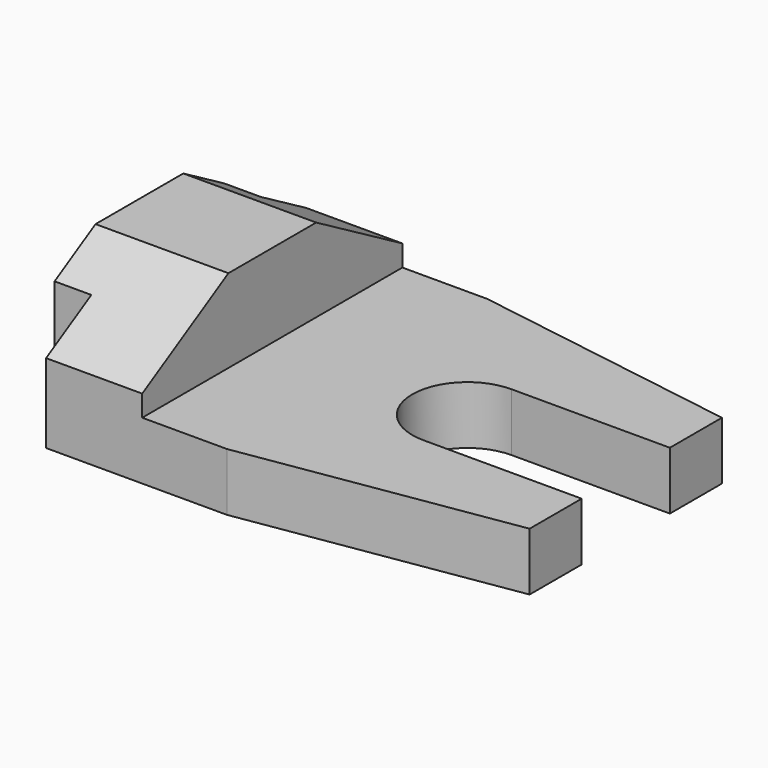
from build123d import *

# Parameters (mm, degrees)
F1_DEPTH = 25.4
F2_W     = 15.24
F2_H     = 14.986
F2_W_2   = 48.74875
F3_DEPTH = 76.2
F5_DEPTH = 25.4


with BuildPart() as f1:
    # F0 (on Top) → F1 (new body)
    with BuildSketch(Plane.XY):
        with BuildLine():
            Line((1.640223, 29.21), (-30.871777, 29.21))
            Line((-30.871777, 29.21), (-30.871777, 19.05))
            Line((-30.871777, 19.05), (-37.475777, 19.05))
            Line((-37.475777, 19.05), (-37.475777, -19.05))
            Line((-37.475777, -19.05), (-30.871777, -19.05))
            Line((-30.871777, -19.05), (-30.871777, -29.21))
            Line((-30.871777, -29.21), (1.640223, -29.21))
            Line((1.640223, -29.21), (49.900223, -21.59))
            Line((49.900223, -21.59), (49.900223, -9.906))
            Line((49.900223, -9.906), (21.452223, -9.906))
            ThreePointArc((21.452223, -9.906), (11.546223, 0), (21.452223, 9.906))
            Line((21.452223, 9.906), (49.900223, 9.906))
            Line((49.900223, 9.906), (49.900223, 21.59))
            Line((49.900223, 21.59), (1.640223, 29.21))
        make_face()
    extrude(amount=F1_DEPTH)

    # F2 (on face) → F3 (cut)
    with BuildSketch(Plane.XZ.offset(29.21)):
        with Locations((-5.979777, 17.907)):
            Rectangle(F2_W, F2_H)
        with Locations((26.014598, 17.907)):
            Rectangle(F2_W_2, F2_H)
    extrude(amount=-F3_DEPTH, mode=Mode.SUBTRACT)

    # F4 (on face) → F5 (cut)
    with BuildSketch(Plane.YZ.offset(-13.599777)):
        Polygon((-29.21, 14.224), (-9.8526, 25.4), (-29.21, 25.4), align=None)
        Polygon((29.21, 25.4), (9.8526, 25.4), (29.21, 14.224), align=None)
    extrude(amount=-F5_DEPTH, mode=Mode.SUBTRACT)


solid = f1.part
